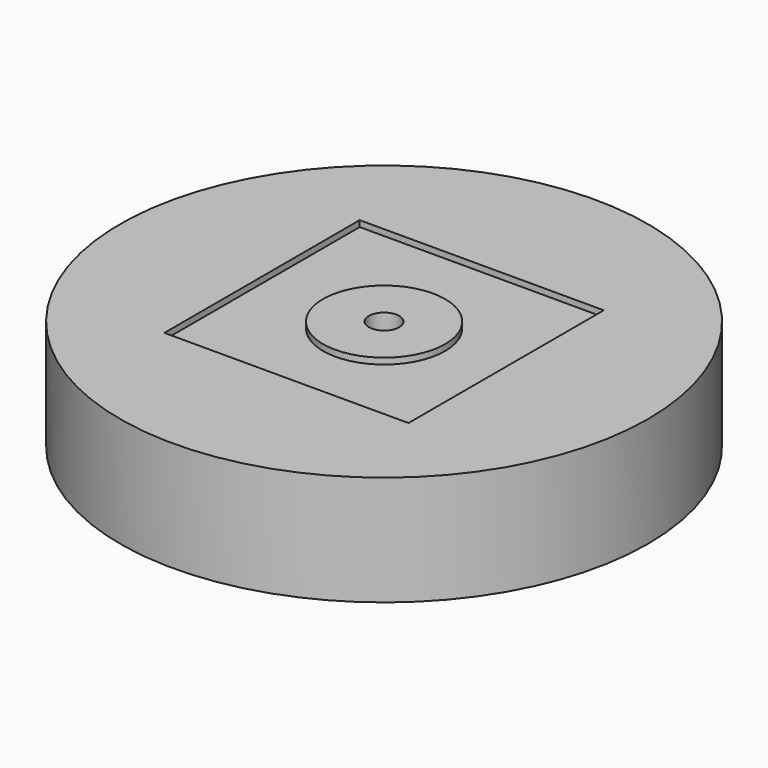
from build123d import *

# Parameters (mm, degrees)
SKETCH005_R              = 43.25
PAD002_DEPTH             = 18
SKETCH006_R              = 33.25
SKETCH006_R_2            = 28.25
POCKET003_DEPTH          = 10
HOLE_D                   = 5
HOLE_CBORE_D             = 11
HOLE_CBORE_DEPTH         = 10
SKETCH008_W              = 40
SKETCH008_H              = 40
SKETCH008_R              = 10
POCKET004_DEPTH          = 1
CLONE003_PLACEMENT_ANGLE = 180


with BuildPart() as part:
    # Sketch005 → Pad002 (new body)
    with BuildSketch(Plane.XY):
        Circle(SKETCH005_R)
    extrude(amount=PAD002_DEPTH)

    # Sketch006 (on Face3 of Pad002) → Pocket003 (cut)
    with BuildSketch(Plane.XY.offset(18)):
        Circle(SKETCH006_R)
        Circle(SKETCH006_R_2, mode=Mode.SUBTRACT)
    extrude(amount=-POCKET003_DEPTH, mode=Mode.SUBTRACT)

    # Hole (through all)
    with Locations(Plane.XY.offset(18)):
        with Locations((0, 0)):
            CounterBoreHole(HOLE_D / 2, HOLE_CBORE_D / 2, HOLE_CBORE_DEPTH)

    # Sketch008 (on Face2 of Hole) → Pocket004 (cut)
    with BuildSketch(Plane(origin=(0, 0, 0), x_dir=(1, 0, 0), z_dir=(0, 0, -1))):
        Rectangle(SKETCH008_W, SKETCH008_H)
        Circle(SKETCH008_R, mode=Mode.SUBTRACT)
    extrude(amount=-POCKET004_DEPTH, mode=Mode.SUBTRACT)


with BuildPart() as part_1:
    # Clone003 placement: moved
    add(part.part.moved(Location((0, 0, 18))).rotate(Axis((0, 0, 18), (1, 0, 0)), CLONE003_PLACEMENT_ANGLE))


solid = part_1.part
